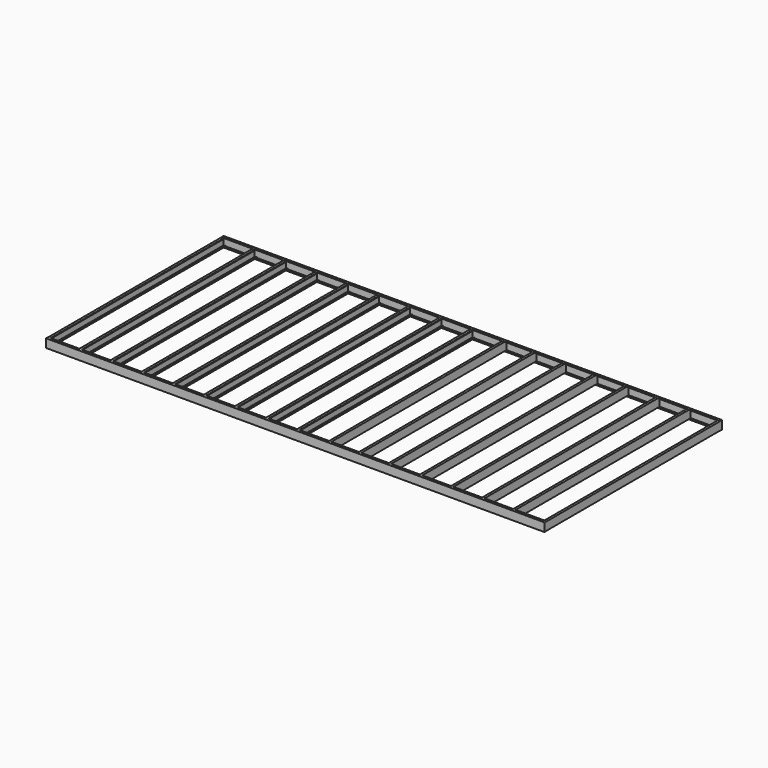
from build123d import *

# Parameters (mm, degrees)
F1_DEPTH = 3780
F3_DEPTH = 8508


with BuildPart() as f1:
    # F0 (on Front) → F1 (new body)
    with BuildSketch(Plane.XZ):
        Polygon((0, 140), (0, 0), (40, 0), (40, 12), (37, 12), (37, 3), (3, 3), (3, 137), (37, 137), (37, 128), (40, 128), (40, 140), align=None)
        Polygon((568, 3), (534, 3), (534, 137), (568, 137), (568, 128), (571, 128), (571, 140), (531, 140), (531, 0), (571, 0), (571, 12), (568, 12), align=None)
        Polygon((1099, 3), (1065, 3), (1065, 137), (1099, 137), (1099, 128), (1102, 128), (1102, 140), (1062, 140), (1062, 0), (1102, 0), (1102, 12), (1099, 12), align=None)
        Polygon((1630, 3), (1596, 3), (1596, 137), (1630, 137), (1630, 128), (1633, 128), (1633, 140), (1593, 140), (1593, 0), (1633, 0), (1633, 12), (1630, 12), align=None)
        Polygon((2161, 3), (2127, 3), (2127, 137), (2161, 137), (2161, 128), (2164, 128), (2164, 140), (2124, 140), (2124, 0), (2164, 0), (2164, 12), (2161, 12), align=None)
        Polygon((2692, 3), (2658, 3), (2658, 137), (2692, 137), (2692, 128), (2695, 128), (2695, 140), (2655, 140), (2655, 0), (2695, 0), (2695, 12), (2692, 12), align=None)
        Polygon((8468, 12), (8468, 0), (8508, 0), (8508, 140), (8468, 140), (8468, 128), (8471, 128), (8471, 137), (8505, 137), (8505, 3), (8471, 3), (8471, 12), align=None)
        Polygon((7937, 12), (7937, 0), (7977, 0), (7977, 140), (7937, 140), (7937, 128), (7940, 128), (7940, 137), (7974, 137), (7974, 3), (7940, 3), (7940, 12), align=None)
        Polygon((6344, 12), (6344, 0), (6384, 0), (6384, 140), (6344, 140), (6344, 128), (6347, 128), (6347, 137), (6381, 137), (6381, 3), (6347, 3), (6347, 12), align=None)
        Polygon((6912, 137), (6912, 3), (6878, 3), (6878, 12), (6875, 12), (6875, 0), (6915, 0), (6915, 140), (6875, 140), (6875, 128), (6878, 128), (6878, 137), align=None)
        Polygon((5850, 137), (5850, 3), (5816, 3), (5816, 12), (5813, 12), (5813, 0), (5853, 0), (5853, 140), (5813, 140), (5813, 128), (5816, 128), (5816, 137), align=None)
        Polygon((7443, 137), (7443, 3), (7409, 3), (7409, 12), (7406, 12), (7406, 0), (7446, 0), (7446, 140), (7406, 140), (7406, 128), (7409, 128), (7409, 137), align=None)
        Polygon((5303, 0), (5343, 0), (5343, 140), (5303, 140), (5303, 128), (5306, 128), (5306, 137), (5340, 137), (5340, 3), (5306, 3), (5306, 12), (5303, 12), align=None)
        Polygon((3223, 3), (3189, 3), (3189, 137), (3223, 137), (3223, 128), (3226, 128), (3226, 140), (3186, 140), (3186, 0), (3226, 0), (3226, 12), (3223, 12), align=None)
        Polygon((3754, 3), (3720, 3), (3720, 137), (3754, 137), (3754, 128), (3757, 128), (3757, 140), (3717, 140), (3717, 0), (3757, 0), (3757, 12), (3754, 12), align=None)
        Polygon((4285, 3), (4251, 3), (4251, 137), (4285, 137), (4285, 128), (4288, 128), (4288, 140), (4248, 140), (4248, 0), (4288, 0), (4288, 12), (4285, 12), align=None)
        Polygon((4793, 0), (4833, 0), (4833, 140), (4793, 140), (4793, 128), (4796, 128), (4796, 137), (4830, 137), (4830, 3), (4796, 3), (4796, 12), (4793, 12), align=None)
    extrude(amount=F1_DEPTH)

    # F2 (on Right) → F3 (join, through all)
    with BuildSketch(Plane.YZ):
        Polygon((0, 0), (-40, 0), (-40, -3), (3, -3), (3, 143), (-40, 143), (-40, 140), (0, 140), align=None)
        Polygon((-3740, 140), (-3740, 143), (-3783, 143), (-3783, -3), (-3740, -3), (-3740, 0), (-3780, 0), (-3780, 140), align=None)
    extrude(amount=F3_DEPTH)


solid = f1.part
